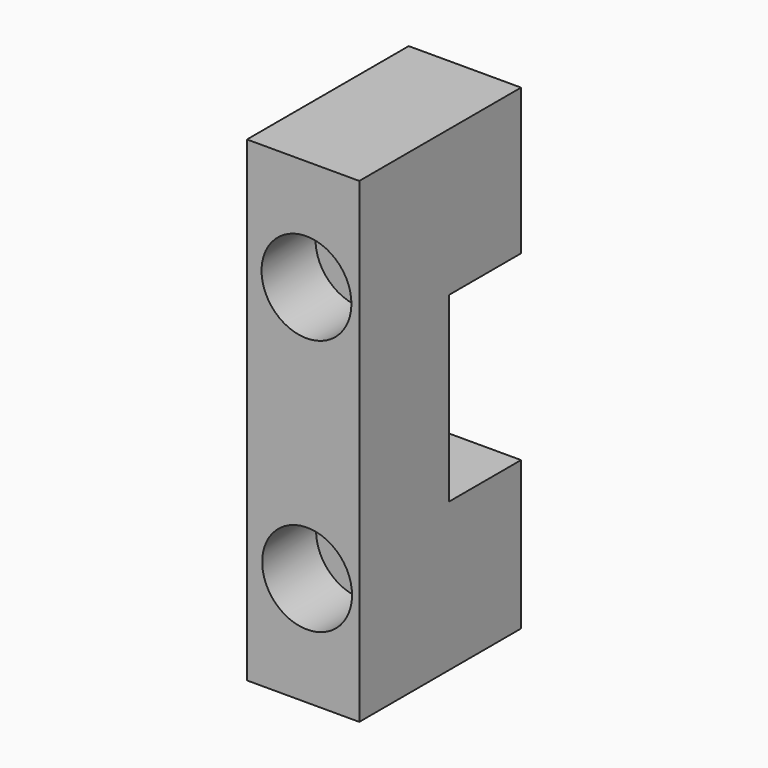
from build123d import *

# Parameters (mm, degrees)
SKETCH020_W     = 5
SKETCH020_H     = 21.2
PAD010_DEPTH    = 9
SKETCH023_W     = 6.65
SKETCH023_H     = 8.1
POCKET011_DEPTH = 4
SKETCH024_R     = 1.05
POCKET012_DEPTH = 10
SKETCH025_R     = 2
POCKET013_DEPTH = 3


with BuildPart() as part:
    # Sketch020 → Pad010 (new body)
    with BuildSketch(Plane.XZ):
        with Locations((26.859407, 7.981561)):
            Rectangle(SKETCH020_W, SKETCH020_H)
    extrude(amount=PAD010_DEPTH)

    # Sketch023 (on Face5 of Pad010) → Pocket011 (cut)
    with BuildSketch(Plane(origin=(0, 0, 0), x_dir=(1, 0, 0), z_dir=(0, 1, 0))):
        with Locations((27.211889, -8.03451)):
            Rectangle(SKETCH023_W, SKETCH023_H)
    extrude(amount=-POCKET011_DEPTH, mode=Mode.SUBTRACT)

    # Sketch024 (on Face2 of Pocket011) → Pocket012 (cut)
    with BuildSketch(Plane(origin=(0, 0, 0), x_dir=(1, 0, 0), z_dir=(0, 1, 0))):
        with Locations((27.009228, -13.650866)):
            Circle(SKETCH024_R)
        with Locations((27.036736, -2.243972)):
            Circle(SKETCH024_R)
    extrude(amount=-POCKET012_DEPTH, mode=Mode.SUBTRACT)

    # Sketch025 (on Face8 of Pocket012) → Pocket013 (cut)
    with BuildSketch(Plane.XZ.offset(9)):
        with Locations((27.009228, 13.650866)):
            Circle(SKETCH025_R)
        with Locations((27.036736, 2.243972)):
            Circle(SKETCH025_R)
    extrude(amount=-POCKET013_DEPTH, mode=Mode.SUBTRACT)


with BuildPart() as part_1:
    # Body005 placement: moved
    add(part.part.moved(Location((0, 20, 0))))


solid = part_1.part
